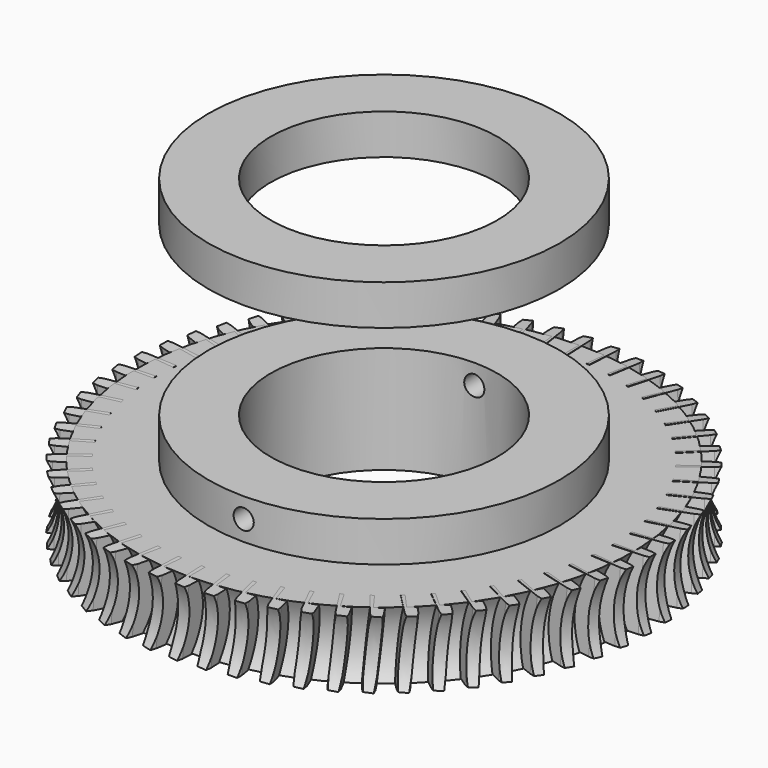
from build123d import *

# Parameters (mm, degrees)
TORUS_R     = 10
PAD_DEPTH   = 10
ARRAY_COUNT = 60
SKETCH006_W = 9.3
SKETCH006_H = 6


with BuildPart() as torus:
    # Torus → Torus (revolve)
    with BuildSketch(Plane(origin=(0, 0, 5), x_dir=(1, 0, 0), z_dir=(0, -1, 0))):
        with Locations((48, 0)):
            Circle(TORUS_R)
    revolve(axis=Axis((0, 0, 5), (0, 0, 1)))


with BuildPart() as cut002:
    # Sketch → Pad (new body)
    with BuildSketch(Plane(origin=(0, 0, 0), x_dir=(0.995396, 0, 0.095846), z_dir=(-0.095846, 0, 0.995396))):
        Polygon((-1, 34), (-0.8, 38.554314), (-0.5, 40), (0.5, 40), (0.8, 38.554314), (1, 34), align=None)
    extrude(amount=PAD_DEPTH)

    # Array: Cut002 ×60 about axis
    array_axis = Axis((0, 0, 0), (0, 0, 1))


with BuildPart() as cut002_1:
    add(cut002.part)
    for i in range(1, ARRAY_COUNT):
        add(cut002.part.rotate(array_axis, i * 360 / ARRAY_COUNT))

    # Cut002: cut Torus
    add(torus.part, mode=Mode.SUBTRACT)


with BuildPart() as ring:
    # Sketch006 → Revolution002 (revolve)
    with BuildSketch(Plane.YZ):
        with Locations((21.55, 44.076003)):
            Rectangle(SKETCH006_W, SKETCH006_H)
    revolve(axis=Axis((0, 0, 0), (0, 0, 1)))


with BuildPart() as revolution:
    # Sketch007 → Revolution (revolve)
    with BuildSketch(Plane.XY.offset(13)):
        Polygon((0, 27), (2.7, 27), (2.7, 22.5), (1.5, 22.5), (1.5, -28.468008), (0, -28.468008), align=None)
    revolve(axis=Axis((0, 0, 13), (0, 1, 0)))


with BuildPart() as cut:
    # Sketch003 → Revolution001 (revolve)
    with BuildSketch(Plane.YZ):
        with BuildLine():
            Line((16.9, 16), (16.9, 0))
            Line((16.9, 0), (37, 0))
            ThreePointArc((37, 10), (35.660254, 5), (37, 0))
            Line((37, 10), (26.2, 10))
            Line((26.2, 10), (26.2, 16))
            Line((26.2, 16), (16.9, 16))
        make_face()
    revolve(axis=Axis((0, 0, 0), (0, 0, 1)))

    # Cut: cut Revolution
    add(revolution.part, mode=Mode.SUBTRACT)


solid = Compound([cut002_1.part, ring.part, cut.part])
